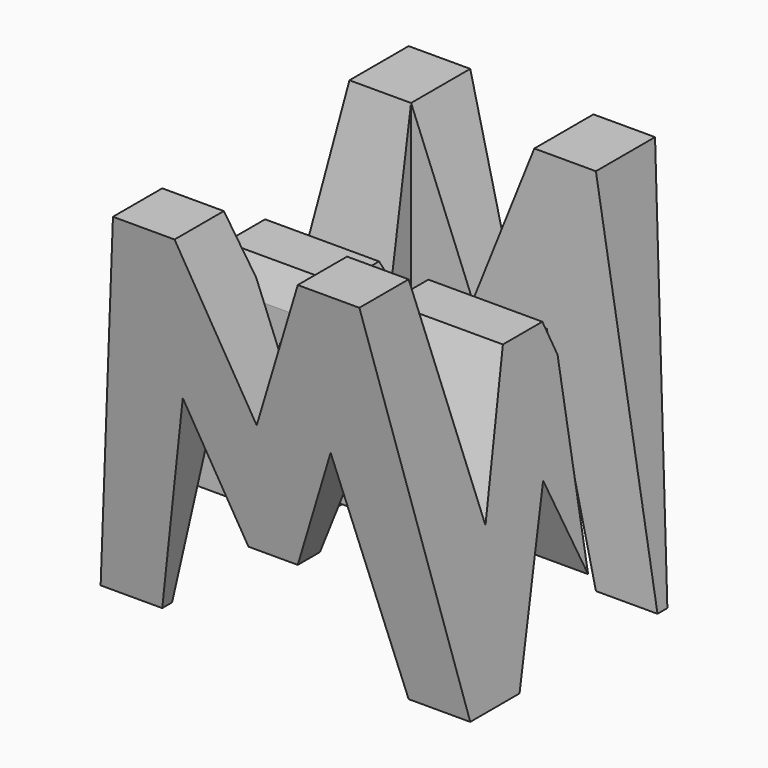
from build123d import *

# Parameters (mm, degrees)
F0_W      = 38.1
F0_H      = 38.1
F1_DEPTH  = 38.1
F6_DEPTH  = 38.1
F8_DEPTH  = 38.1
F9_W      = 25.4
F9_H      = 7.62
F10_DEPTH = 38.1


with BuildPart() as f1:
    # F0 (on Front) → F1 (new body)
    with BuildSketch(Plane.XZ):
        with Locations((19.05, 19.05)):
            Rectangle(F0_W, F0_H)
    extrude(amount=F1_DEPTH)

    # F5 (on offset) → F6 (cut)
    with BuildSketch(Plane.YZ.offset(38.1)):
        Polygon((-11.43, 15.253705), (-7.626852, 38.1), (-31.75, 38.1), (-26.67, 14.965899), (-21.59, 28.575), (-16.51, 28.575), align=None)
        Polygon((-31.75, 0), (-38.1, 38.1), (-38.1, 0), align=None)
        Polygon((-25.4, 0), (-12.7, 0), (-19.05, 15.875), align=None)
        Polygon((-6.35, 0), (0, 0), (0, 38.1), align=None)
    extrude(amount=-F6_DEPTH, mode=Mode.SUBTRACT)

    # F7 (on offset) → F8 (cut)
    with BuildSketch(Plane.XZ.offset(38.1)):
        Polygon((6.35, 38.1), (0, 38.1), (0, 0), align=None)
        Polygon((25.4, 38.1), (12.7, 38.1), (19.05, 22.225), align=None)
        Polygon((38.1, 38.1), (31.75, 38.1), (38.1, 0), align=None)
        Polygon((11.43, 22.225), (6.35, 0), (31.75, 0), (26.67, 22.225), (21.59, 9.525), (16.51, 9.525), align=None)
    extrude(amount=-F8_DEPTH, mode=Mode.SUBTRACT)

    # F9 (on offset) → F10 (cut)
    with BuildSketch(Plane.XY.offset(38.1)):
        with Locations((25.4, -11.43)):
            Rectangle(F9_W, F9_H)
        with Locations((12.7, -26.67)):
            Rectangle(F9_W, F9_H)
    extrude(amount=-F10_DEPTH, mode=Mode.SUBTRACT)


solid = f1.part
